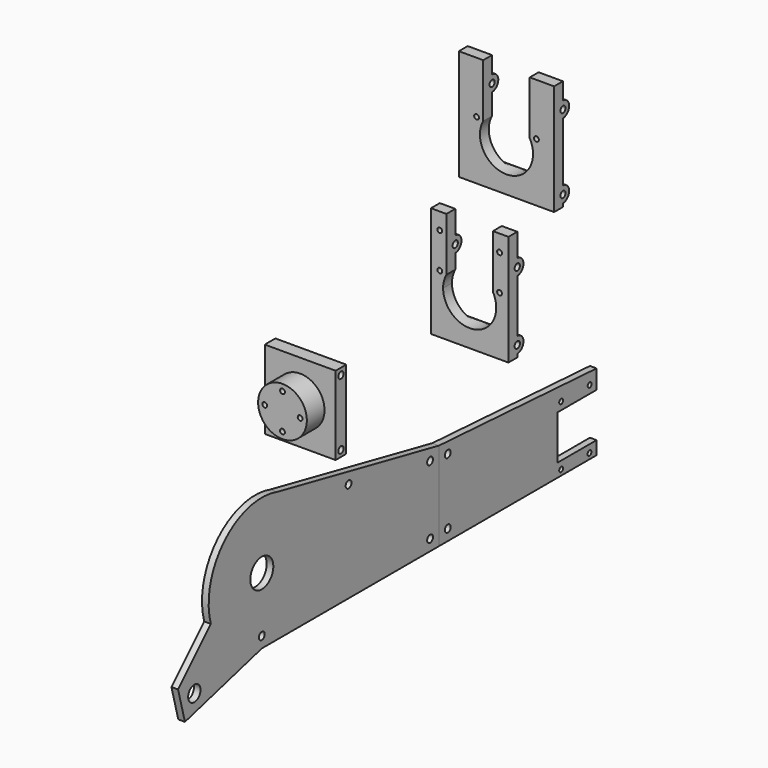
from build123d import *

# Parameters (mm, degrees)
F0_R            = 1.65
F0_R_2          = 1.1
F1_DEPTH        = 3
F2_R            = 3.5
F2_R_2          = 1.65
F2_R_3          = 6.5
F3_DEPTH        = 3
F5_DEPTH        = 35
F7_D            = 2.2
F7_DEPTH        = 12
F7_CBORE_D      = 4
F7_CBORE_DEPTH  = 2
F7_TIP          = 0.6609466809
F6_W            = 21
F6_H            = 10.579
F8_DEPTH        = 25
F8_DEPTH_BACK   = 25
F9_W            = 6
F9_H            = 35.53
F10_DEPTH       = 32
F11_D           = 3
F12_R           = 11
F13_DEPTH       = 16
F14_D           = 2.2
F14_CBORE_D     = 4
F14_CBORE_DEPTH = 13
F16_DEPTH       = 43
F17_W           = 21
F17_H           = 7.7
F18_DEPTH       = 12.5
F19_D           = 2.2
F19_CBORE_D     = 4
F19_CBORE_DEPTH = 2


with BuildPart() as f1:
    # F0 (on Right) → F1 (new body)
    with BuildSketch(Plane.YZ):
        Polygon((134.868821919, -66.8961822494), (45.859821919, -61.4187053263), (45.859821919, -101.4187053263), (134.868821919, -101.4187053263), (134.868821919, -95.4187053263), (112.868821919, -95.4187053263), (112.868821919, -75.4187053263), (134.868821919, -75.4187053263), align=None)
        with Locations((50.859821919, -96.4187053263)):
            Circle(F0_R, mode=Mode.SUBTRACT)
        with Locations((114.868821919, -98.9187053263)):
            Circle(F0_R_2, mode=Mode.SUBTRACT)
        with Locations((130.868821919, -98.9187053263)):
            Circle(F0_R_2, mode=Mode.SUBTRACT)
        with Locations((50.859821919, -66.7358561433)):
            Circle(F0_R, mode=Mode.SUBTRACT)
        with Locations((114.868821919, -71.9187053263)):
            Circle(F0_R_2, mode=Mode.SUBTRACT)
        with Locations((130.9641025662, -71.9187053263)):
            Circle(F0_R_2, mode=Mode.SUBTRACT)
    extrude(amount=F1_DEPTH)


with BuildPart() as f3:
    # F2 (on Right) → F3 (new body)
    with BuildSketch(Plane.YZ):
        with BuildLine():
            Line((45.859821919, -101.4187053263), (45.859821919, -61.4187053263))
            Line((45.859821919, -61.4187053263), (-45.5225354032, -42.683078751))
            ThreePointArc((-45.5225354032, -42.683078751), (-75.3328827835, -50.1850229468), (-82.8923977892, -79.9808231631))
            Line((-82.8923977892, -79.9808231631), (-101.4139502366, -98.5023756104))
            Line((-101.4139502366, -98.5023756104), (-97.5316645601, -112.9912630048))
            Line((-97.5316645601, -112.9912630048), (-54.140178081, -101.4187053263))
            Line((-54.140178081, -101.4187053263), (45.859821919, -101.4187053263))
        make_face()
        with Locations((-92.2261038997, -103.814110163)):
            Circle(F2_R, mode=Mode.SUBTRACT)
        with Locations((-54.140178081, -96.4187053263)):
            Circle(F2_R_2, mode=Mode.SUBTRACT)
        with Locations((40.859821919, -96.4187053263)):
            Circle(F2_R_2, mode=Mode.SUBTRACT)
        with Locations((-54.140178081, -71.4187053263)):
            Circle(F2_R_3, mode=Mode.SUBTRACT)
        with Locations((40.859821919, -65.4975885229)):
            Circle(F2_R_2, mode=Mode.SUBTRACT)
        with Locations((-5.1531680486, -56.0637960173)):
            Circle(F2_R_2, mode=Mode.SUBTRACT)
        with BuildLine():
            Line((45.859821919, -101.4187053263), (45.859821919, -61.4187053263))
            Line((45.859821919, -61.4187053263), (-45.5225354032, -42.683078751))
            ThreePointArc((-45.5225354032, -42.683078751), (-75.3328827835, -50.1850229468), (-82.8923977892, -79.9808231631))
            Line((-82.8923977892, -79.9808231631), (-101.4139502366, -98.5023756104))
            Line((-101.4139502366, -98.5023756104), (-97.5316645601, -112.9912630048))
            Line((-97.5316645601, -112.9912630048), (-54.140178081, -101.4187053263))
            Line((-54.140178081, -101.4187053263), (45.859821919, -101.4187053263))
        make_face()
        with Locations((-92.2261038997, -103.814110163)):
            Circle(F2_R, mode=Mode.SUBTRACT)
        with Locations((-54.140178081, -96.4187053263)):
            Circle(F2_R_2, mode=Mode.SUBTRACT)
        with Locations((40.859821919, -96.4187053263)):
            Circle(F2_R_2, mode=Mode.SUBTRACT)
        with Locations((-54.140178081, -71.4187053263)):
            Circle(F2_R_3, mode=Mode.SUBTRACT)
        with Locations((40.859821919, -65.4975885229)):
            Circle(F2_R_2, mode=Mode.SUBTRACT)
        with Locations((-5.1531680486, -56.0637960173)):
            Circle(F2_R_2, mode=Mode.SUBTRACT)
        with BuildLine():
            Line((45.859821919, -101.4187053263), (45.859821919, -61.4187053263))
            Line((45.859821919, -61.4187053263), (-45.5225354032, -42.683078751))
            ThreePointArc((-45.5225354032, -42.683078751), (-75.3328827835, -50.1850229468), (-82.8923977892, -79.9808231631))
            Line((-82.8923977892, -79.9808231631), (-101.4139502366, -98.5023756104))
            Line((-101.4139502366, -98.5023756104), (-97.5316645601, -112.9912630048))
            Line((-97.5316645601, -112.9912630048), (-54.140178081, -101.4187053263))
            Line((-54.140178081, -101.4187053263), (45.859821919, -101.4187053263))
        make_face()
        with Locations((-92.2261038997, -103.814110163)):
            Circle(F2_R, mode=Mode.SUBTRACT)
        with Locations((-54.140178081, -96.4187053263)):
            Circle(F2_R_2, mode=Mode.SUBTRACT)
        with Locations((40.859821919, -96.4187053263)):
            Circle(F2_R_2, mode=Mode.SUBTRACT)
        with Locations((-54.140178081, -71.4187053263)):
            Circle(F2_R_3, mode=Mode.SUBTRACT)
        with Locations((40.859821919, -65.4975885229)):
            Circle(F2_R_2, mode=Mode.SUBTRACT)
        with Locations((-5.1531680486, -56.0637960173)):
            Circle(F2_R_2, mode=Mode.SUBTRACT)
    extrude(amount=F3_DEPTH)


with BuildPart() as f5:
    # F4 (on Right) → F5 (new body)
    with BuildSketch(Plane.YZ):
        with BuildLine():
            Line((50.0948551297, 21.7378329895), (50.0948551297, 32.3168329895))
            Line((50.0948551297, 32.3168329895), (45.0948551297, 32.3168329895))
            Line((45.0948551297, 32.3168329895), (45.0948551297, -17.6831670105))
            Line((45.0948551297, -17.6831670105), (50.0948551297, -17.6831670105))
            Line((50.0948551297, -17.6831670105), (50.0948551297, -16.1831670105))
            ThreePointArc((50.0948551297, -16.1831670105), (46.5948551297, -12.6831670105), (50.0948551297, -9.1831670105))
            Line((50.0948551297, -9.1831670105), (50.0948551297, 14.7378329895))
            ThreePointArc((50.0948551297, 14.7378329895), (46.5948551297, 18.2378329895), (50.0948551297, 21.7378329895))
        make_face()
        with BuildLine():
            ThreePointArc((53.5948551297, 18.2378329895), (52.5697288639, 20.7127067236), (50.0948551297, 21.7378329895))
            Line((50.0948551297, 21.7378329895), (50.0948551297, 19.7378329895))
            ThreePointArc((50.0948551297, 19.7378329895), (51.1555153015, 19.2984931612), (51.5948551297, 18.2378329895))
            ThreePointArc((51.5948551297, 18.2378329895), (51.1555153015, 17.1771728177), (50.0948551297, 16.7378329895))
            Line((50.0948551297, 16.7378329895), (50.0948551297, 14.7378329895))
            ThreePointArc((50.0948551297, 14.7378329895), (52.5697288639, 15.7629592553), (53.5948551297, 18.2378329895))
        make_face()
        with BuildLine():
            Line((50.0948551297, 19.7378329895), (50.0948551297, 21.7378329895))
            ThreePointArc((50.0948551297, 21.7378329895), (46.5948551297, 18.2378329895), (50.0948551297, 14.7378329895))
            Line((50.0948551297, 14.7378329895), (50.0948551297, 16.7378329895))
            ThreePointArc((50.0948551297, 16.7378329895), (48.5948551297, 18.2378329895), (50.0948551297, 19.7378329895))
        make_face()
        with BuildLine():
            ThreePointArc((53.5948551297, -12.6831670105), (52.5697288639, -10.2082932764), (50.0948551297, -9.1831670105))
            Line((50.0948551297, -9.1831670105), (50.0948551297, -11.1831670105))
            ThreePointArc((50.0948551297, -11.1831670105), (51.1555153015, -11.6225068388), (51.5948551297, -12.6831670105))
            ThreePointArc((51.5948551297, -12.6831670105), (51.1555153015, -13.7438271823), (50.0948551297, -14.1831670105))
            Line((50.0948551297, -14.1831670105), (50.0948551297, -16.1831670105))
            ThreePointArc((50.0948551297, -16.1831670105), (52.5697288639, -15.1580407447), (53.5948551297, -12.6831670105))
        make_face()
        with BuildLine():
            Line((50.0948551297, -11.1831670105), (50.0948551297, -9.1831670105))
            ThreePointArc((50.0948551297, -9.1831670105), (46.5948551297, -12.6831670105), (50.0948551297, -16.1831670105))
            Line((50.0948551297, -16.1831670105), (50.0948551297, -14.1831670105))
            ThreePointArc((50.0948551297, -14.1831670105), (48.5948551297, -12.6831670105), (50.0948551297, -11.1831670105))
        make_face()
    extrude(amount=F5_DEPTH)

    # F7
    with Locations(Plane(origin=(0, 50.0948551297, 0), x_dir=(-1, 0, 0), z_dir=(0, 1, 0))):
        with Locations((-4, 24.8168329895), (-4, 8.8168329895), (-31, 24.8168329895), (-31, 8.8168329895)):
            CounterBoreHole(F7_D / 2, F7_CBORE_D / 2, F7_CBORE_DEPTH, depth=F7_DEPTH)
            with Locations((0, 0, -(F7_DEPTH + F7_TIP / 2))):  # 118° drill point
                Cone(0, F7_D / 2, F7_TIP, mode=Mode.SUBTRACT)

    # F6 (on face) → F8 (cut, two sides)
    with BuildSketch(Plane(origin=(0, 50.0948551297, 0), x_dir=(-1, 0, 0), z_dir=(0, 1, 0))) as f8_sk:
        with BuildLine():
            ThreePointArc((-28, 8.1263080088), (-20.5, -9.3021170492), (-5.5, 2.3168329895))
            ThreePointArc((-5.5, 2.3168329895), (-5.8810499614, 5.3168329895), (-7, 8.1263080088))
            ThreePointArc((-7, 8.1263080088), (-17.5, 14.3168329895), (-28, 8.1263080088))
        make_face()
        with BuildLine():
            ThreePointArc((-28, 8.1263080088), (-17.5, 14.3168329895), (-7, 8.1263080088))
            Line((-7, 8.1263080088), (-7, 21.7378329895))
            Line((-7, 21.7378329895), (-28, 21.7378329895))
            Line((-28, 21.7378329895), (-28, 8.1263080088))
        make_face()
        with Locations((-17.5, 27.0273329895)):
            Rectangle(F6_W, F6_H)
    extrude(amount=-F8_DEPTH, mode=Mode.SUBTRACT)
    extrude(f8_sk.sketch, amount=F8_DEPTH_BACK, mode=Mode.SUBTRACT)


with BuildPart() as f10:
    # F9 (on Right) → F10 (new body)
    with BuildSketch(Plane.YZ):
        with Locations((-45.7222016811, -1.5251142904)):
            Rectangle(F9_W, F9_H)
    extrude(amount=F10_DEPTH)

    # F11 (through all)
    with Locations(Plane(origin=(0, 0, 0), x_dir=(0, 1, 0), z_dir=(-1, 0, 0))):
        with Locations((-45.7222016811, -13.2398857096), (-45.7222016811, 16.4431142904)):
            Hole(F11_D / 2)

    # F12 (on face) → F13 (join)
    with BuildSketch(Plane(origin=(0, -42.7222016811, 0), x_dir=(-1, 0, 0), z_dir=(0, 1, 0))):
        with Locations((-16, -1.0909485864)):
            Circle(F12_R)
    extrude(amount=-F13_DEPTH)

    # F14 (through all)
    with Locations(Plane(origin=(0, -42.7222016811, 0), x_dir=(-1, 0, 0), z_dir=(0, 1, 0))):
        with Locations((-16, 6.9090514136), (-8, -1.0909485864), (-16, -9.0909485864), (-24, -1.0909485864)):
            CounterBoreHole(F14_D / 2, F14_CBORE_D / 2, F14_CBORE_DEPTH)


with BuildPart() as f16:
    # F15 (on Right) → F16 (new body)
    with BuildSketch(Plane.YZ):
        with BuildLine():
            Line((65.8788916469, 80.6316277573), (65.8788916469, 88.3316277573))
            Line((65.8788916469, 88.3316277573), (60.8788916469, 88.3316277573))
            Line((60.8788916469, 88.3316277573), (60.8788916469, 38.3316277573))
            Line((60.8788916469, 38.3316277573), (65.8788916469, 38.3316277573))
            Line((65.8788916469, 38.3316277573), (65.8788916469, 39.8316277573))
            ThreePointArc((65.8788916469, 39.8316277573), (62.3788916469, 43.3316277573), (65.8788916469, 46.8316277573))
            Line((65.8788916469, 46.8316277573), (65.8788916469, 73.6316277573))
            ThreePointArc((65.8788916469, 73.6316277573), (62.3788916469, 77.1316277573), (65.8788916469, 80.6316277573))
        make_face()
        with BuildLine():
            ThreePointArc((69.3788916469, 77.1316277573), (68.353765381, 79.6065014915), (65.8788916469, 80.6316277573))
            Line((65.8788916469, 80.6316277573), (65.8788916469, 78.5816277573))
            ThreePointArc((65.8788916469, 78.5816277573), (66.9041964796, 78.15693259), (67.3288916469, 77.1316277573))
            ThreePointArc((67.3288916469, 77.1316277573), (66.9041964796, 76.1063229246), (65.8788916469, 75.6816277573))
            Line((65.8788916469, 75.6816277573), (65.8788916469, 73.6316277573))
            ThreePointArc((65.8788916469, 73.6316277573), (68.353765381, 74.6567540232), (69.3788916469, 77.1316277573))
        make_face()
        with BuildLine():
            Line((65.8788916469, 78.5816277573), (65.8788916469, 80.6316277573))
            ThreePointArc((65.8788916469, 80.6316277573), (62.3788916469, 77.1316277573), (65.8788916469, 73.6316277573))
            Line((65.8788916469, 73.6316277573), (65.8788916469, 75.6816277573))
            ThreePointArc((65.8788916469, 75.6816277573), (64.4288916469, 77.1316277573), (65.8788916469, 78.5816277573))
        make_face()
        with BuildLine():
            ThreePointArc((69.3788916469, 43.3316277573), (68.353765381, 45.8065014915), (65.8788916469, 46.8316277573))
            Line((65.8788916469, 46.8316277573), (65.8788916469, 44.7816277573))
            ThreePointArc((65.8788916469, 44.7816277573), (66.9041964796, 44.35693259), (67.3288916469, 43.3316277573))
            ThreePointArc((67.3288916469, 43.3316277573), (66.9041964796, 42.3063229246), (65.8788916469, 41.8816277573))
            Line((65.8788916469, 41.8816277573), (65.8788916469, 39.8316277573))
            ThreePointArc((65.8788916469, 39.8316277573), (68.353765381, 40.8567540232), (69.3788916469, 43.3316277573))
        make_face()
        with BuildLine():
            Line((65.8788916469, 44.7816277573), (65.8788916469, 46.8316277573))
            ThreePointArc((65.8788916469, 46.8316277573), (62.3788916469, 43.3316277573), (65.8788916469, 39.8316277573))
            Line((65.8788916469, 39.8316277573), (65.8788916469, 41.8816277573))
            ThreePointArc((65.8788916469, 41.8816277573), (64.4288916469, 43.3316277573), (65.8788916469, 44.7816277573))
        make_face()
    extrude(amount=F16_DEPTH)

    # F17 (on face) → F18 (cut, symmetric)
    with BuildSketch(Plane(origin=(0, 65.8788916469, 0), x_dir=(-1, 0, 0), z_dir=(0, 1, 0))):
        with Locations((-21.5, 84.4816277573)):
            Rectangle(F17_W, F17_H)
        with BuildLine():
            ThreePointArc((-32, 64.1411027766), (-24.5, 46.7126777187), (-9.5, 58.3316277573))
            ThreePointArc((-9.5, 58.3316277573), (-9.8810499614, 61.3316277573), (-11, 64.1411027766))
            ThreePointArc((-11, 64.1411027766), (-21.5, 70.3316277573), (-32, 64.1411027766))
        make_face()
        with BuildLine():
            ThreePointArc((-32, 64.1411027766), (-21.5, 70.3316277573), (-11, 64.1411027766))
            Line((-11, 64.1411027766), (-11, 80.6316277573))
            Line((-11, 80.6316277573), (-32, 80.6316277573))
            Line((-32, 80.6316277573), (-32, 64.1411027766))
        make_face()
    extrude(amount=F18_DEPTH, both=True, mode=Mode.SUBTRACT)

    # F19 (through all)
    with Locations(Plane(origin=(0, 65.8788916469, 0), x_dir=(-1, 0, 0), z_dir=(0, 1, 0))):
        with Locations((-35, 64.8316277573), (-8, 64.8316277573)):
            CounterBoreHole(F19_D / 2, F19_CBORE_D / 2, F19_CBORE_DEPTH)


solid = Compound([f1.part, f3.part, f5.part, f10.part, f16.part])
